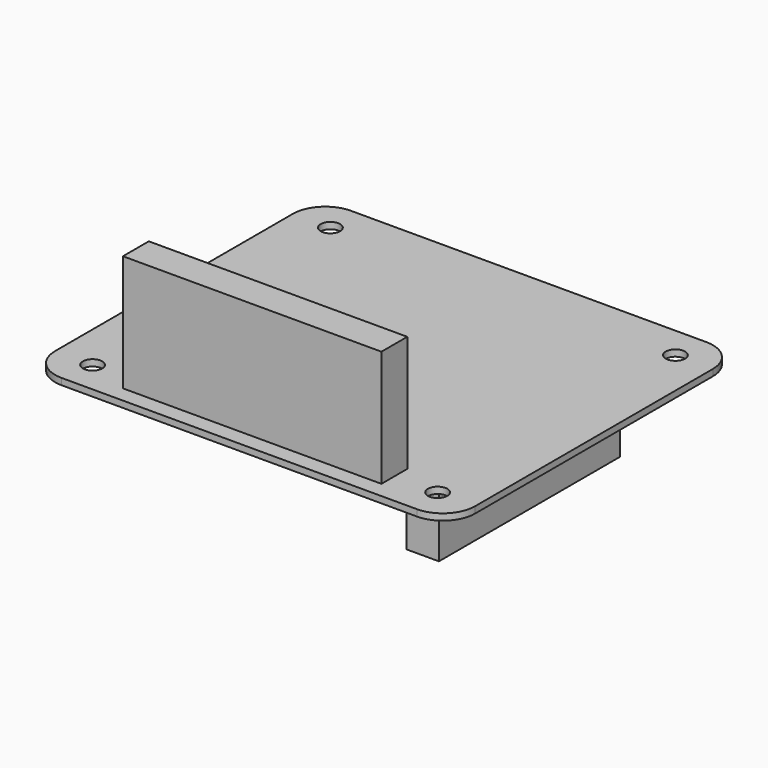
from build123d import *

# Parameters (mm, degrees)
SKETCH_W     = 65
SKETCH_H     = 56
SKETCH_R     = 1.5
PAD_DEPTH    = 1
FILLET_R     = 5
SKETCH001_W  = 40
SKETCH001_H  = 5
PAD001_DEPTH = 18
SKETCH002_W  = 5
SKETCH002_H  = 35
PAD002_DEPTH = 12


with BuildPart() as part:
    # Sketch → Pad (new body)
    with BuildSketch(Plane.XY):
        Rectangle(SKETCH_W, SKETCH_H)
        with Locations((-26.696429, 23)):
            Circle(SKETCH_R, mode=Mode.SUBTRACT)
        with Locations((-26.696429, -23)):
            Circle(SKETCH_R, mode=Mode.SUBTRACT)
        with Locations((26.696429, -23)):
            Circle(SKETCH_R, mode=Mode.SUBTRACT)
        with Locations((26.696429, 23)):
            Circle(SKETCH_R, mode=Mode.SUBTRACT)
    extrude(amount=PAD_DEPTH)

    # Fillet
    fillet_edges = [part.edges().sort_by_distance(p)[0] for p in [
        (-32.5, -28, 0.5),
        (32.5, -28, 0.5),
        (32.5, 28, 0.5),
        (-32.5, 28, 0.5),
    ]]
    fillet(fillet_edges, radius=FILLET_R)

    # Sketch001 (on Face5 of Fillet) → Pad001 (join)
    with BuildSketch(Plane.XY.offset(1)):
        with Locations((0, -23)):
            Rectangle(SKETCH001_W, SKETCH001_H)
    extrude(amount=PAD001_DEPTH)

    # Sketch002 (on Face2 of Pad001) → Pad002 (join)
    with BuildSketch(Plane(origin=(0, 0, 0), x_dir=(1, 0, 0), z_dir=(0, 0, -1))):
        with Locations((20, 0)):
            Rectangle(SKETCH002_W, SKETCH002_H)
    extrude(amount=PAD002_DEPTH)


solid = part.part
